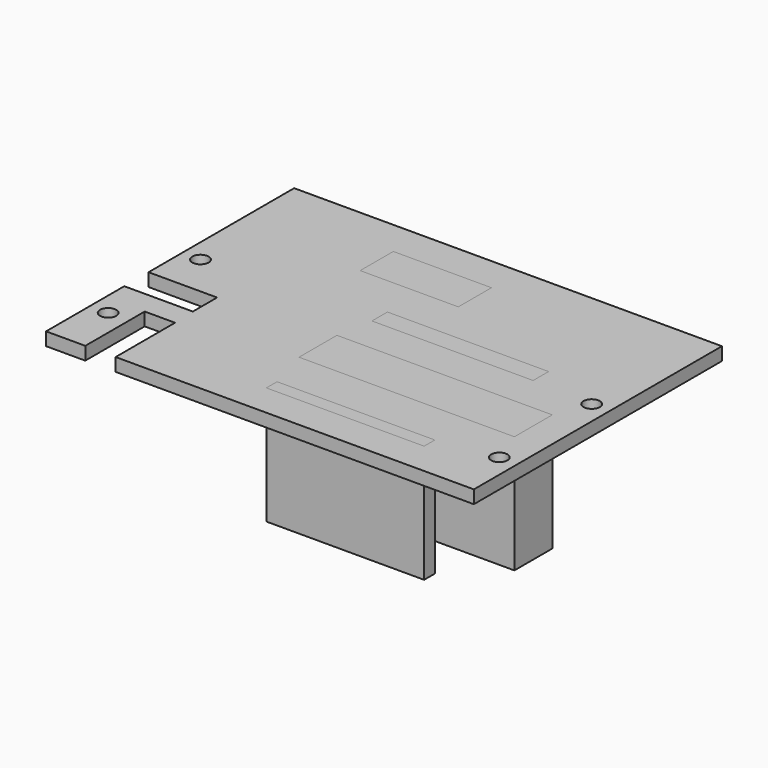
from build123d import *

# Parameters (mm, degrees)
F0_W          = 52.30368
F0_H          = 11.51128
F1_DEPTH      = 25.4
F1_DEPTH_BACK = 3.175
F0_W_2        = 38.30828
F0_H_2        = 3.2512
F0_W_3        = 39.1414
F0_H_3        = 4.70408
F0_W_4        = 23.83536
F0_H_4        = 10.06602
F0_R          = 1.9812
F2_DEPTH      = 3.175


with BuildPart() as f1:
    # F0 (on Top) → F1 (new body, two sides)
    with BuildSketch(Plane.XY) as f1_sk:
        with Locations((70.24116, 27.42438)):
            Rectangle(F0_W, F0_H)
    extrude(amount=-F1_DEPTH)
    extrude(f1_sk.sketch, amount=F1_DEPTH_BACK)


with BuildPart() as f1b:
    # F0 (on Top) → F1, piece 2 (new body, two sides)
    with BuildSketch(Plane.XY) as f1_2_sk:
        with Locations((66.28384, 9.58342)):
            Rectangle(F0_W_2, F0_H_2)
    extrude(amount=-F1_DEPTH)
    extrude(f1_2_sk.sketch, amount=F1_DEPTH_BACK)


with BuildPart() as f1c:
    # F0 (on Top) → F1, piece 3 (new body, two sides)
    with BuildSketch(Plane.XY) as f1_3_sk:
        with Locations((65.15862, 44.28236)):
            Rectangle(F0_W_3, F0_H_3)
    extrude(amount=-F1_DEPTH)
    extrude(f1_3_sk.sketch, amount=F1_DEPTH_BACK)


with BuildPart() as f1d:
    # F0 (on Top) → F1, piece 4 (new body, two sides)
    with BuildSketch(Plane.XY) as f1_4_sk:
        with Locations((42.84472, 61.71565)):
            Rectangle(F0_W_4, F0_H_4)
    extrude(amount=-F1_DEPTH)
    extrude(f1_4_sk.sketch, amount=F1_DEPTH_BACK)


with BuildPart() as f2:
    # F0 (on Top) → F2 (new body)
    with BuildSketch(Plane.XY):
        Polygon((0, 23.7363), (0, 0), (9.51992, 0), (9.51992, 18.034), (16.88592, 18.034), (16.88592, 0), (103.886, 0), (103.886, 75.2983), (0, 75.2983), (0, 31.1023), (16.64462, 31.1023), (16.64462, 23.7363), align=None)
        with Locations((4.445, 13.2842)):
            Circle(F0_R, mode=Mode.SUBTRACT)
        with Locations((66.28384, 9.58342)):
            Rectangle(F0_W_2, F0_H_2, mode=Mode.SUBTRACT)
        with Locations((99.441, 13.27912)):
            Circle(F0_R, mode=Mode.SUBTRACT)
        with Locations((70.24116, 27.42438)):
            Rectangle(F0_W, F0_H, mode=Mode.SUBTRACT)
        with Locations((4.445, 41.3131)):
            Circle(F0_R, mode=Mode.SUBTRACT)
        with Locations((42.84472, 61.71565)):
            Rectangle(F0_W_4, F0_H_4, mode=Mode.SUBTRACT)
        with Locations((65.15862, 44.28236)):
            Rectangle(F0_W_3, F0_H_3, mode=Mode.SUBTRACT)
        with Locations((99.441, 41.3131)):
            Circle(F0_R, mode=Mode.SUBTRACT)
    extrude(amount=F2_DEPTH)


solid = Compound([f1.part, f1b.part, f1c.part, f1d.part, f2.part])
